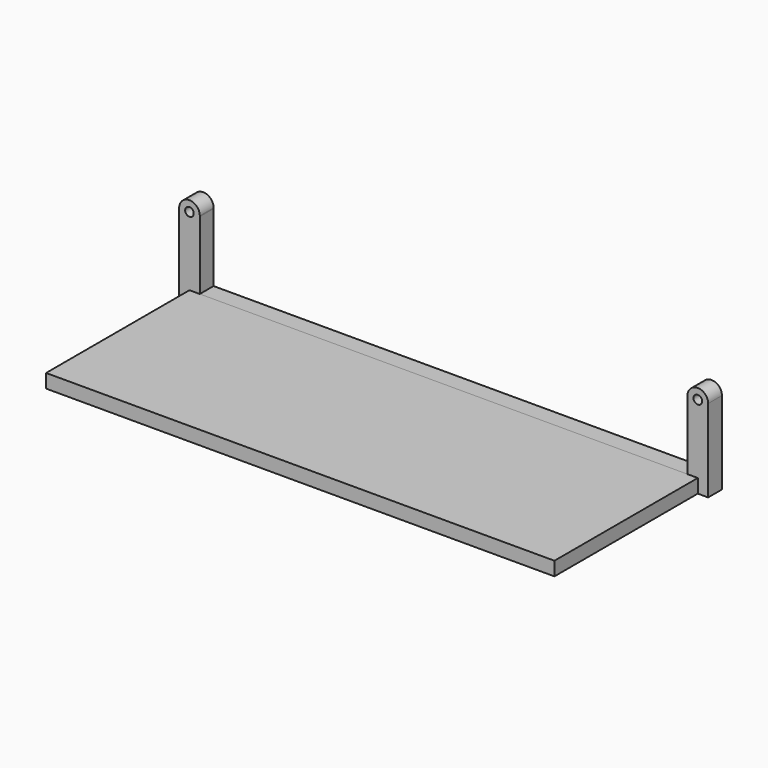
from build123d import *

# Parameters (mm, degrees)
F0_W     = 179.7179731623
F0_H     = 5.08
F0_W_2   = 3.7980637683
F0_W_3   = 3.8089630693
F1_DEPTH = 66.04
F0_R     = 1.5875
F2_DEPTH = 6.35


with BuildPart() as f1:
    # F0 (on Front) → F1 (new body)
    with BuildSketch(Plane.XZ):
        with Locations((5.4330178372, -1.2225511894)):
            Rectangle(F0_W, F0_H)
        with Locations((-86.3250006281, -1.2225511894)):
            Rectangle(F0_W_2, F0_H)
        with Locations((97.196485953, -1.2225511894)):
            Rectangle(F0_W_3, F0_H)
    extrude(amount=F1_DEPTH)


with BuildPart() as f2:
    # F0 (on Front) → F2 (new body)
    with BuildSketch(Plane.XZ):
        with BuildLine():
            Line((95.2920044184, 26.6285649741), (95.2920044184, 1.3174488106))
            Line((95.2920044184, 1.3174488106), (99.1009674877, 1.3174488106))
            Line((99.1009674877, 1.3174488106), (99.1009674877, -3.7625511894))
            Line((99.1009674877, -3.7625511894), (102.9109674877, -3.7625511894))
            Line((102.9109674877, -3.7625511894), (102.9109674877, 26.7174488106))
            ThreePointArc((102.9109674877, 26.7174488106), (99.1454124301, 22.9077080521), (95.2920044184, 26.6285649741))
        make_face()
        with BuildLine():
            ThreePointArc((102.9109674877, 26.7174488106), (99.0565225453, 30.5271895691), (95.2920044184, 26.6285649741))
            ThreePointArc((95.2920044184, 26.6285649741), (99.1454124301, 22.9077080521), (102.9109674877, 26.7174488106))
        make_face()
        with Locations((99.1009674877, 26.7174488106)):
            Circle(F0_R, mode=Mode.SUBTRACT)
        with BuildLine():
            ThreePointArc((-92.0340325123, 26.7174488106), (-88.3748254874, 22.910434038), (-84.425968744, 26.4160991602))
            ThreePointArc((-84.425968744, 26.4160991602), (-84.4170177397, 26.5666558355), (-84.4140325123, 26.7174488106))
            ThreePointArc((-84.4140325123, 26.7174488106), (-88.2240325123, 30.5274488106), (-92.0340325123, 26.7174488106))
        make_face()
        with Locations((-88.2240325123, 26.7174488106)):
            Circle(F0_R, mode=Mode.SUBTRACT)
        with BuildLine():
            Line((-88.2240325123, -3.7625511894), (-88.2240325123, 1.3174488106))
            Line((-88.2240325123, 1.3174488106), (-84.425968744, 1.3174488106))
            Line((-84.425968744, 1.3174488106), (-84.425968744, 26.4160991602))
            ThreePointArc((-84.425968744, 26.4160991602), (-88.3748254874, 22.910434038), (-92.0340325123, 26.7174488106))
            Line((-92.0340325123, 26.7174488106), (-92.0340325123, -3.7625511894))
            Line((-92.0340325123, -3.7625511894), (-88.2240325123, -3.7625511894))
        make_face()
        with Locations((5.4330178372, -1.2225511894)):
            Rectangle(F0_W, F0_H)
        with Locations((-86.3250006281, -1.2225511894)):
            Rectangle(F0_W_2, F0_H)
        with Locations((97.196485953, -1.2225511894)):
            Rectangle(F0_W_3, F0_H)
    extrude(amount=-F2_DEPTH)


solid = Compound([f1.part, f2.part])
